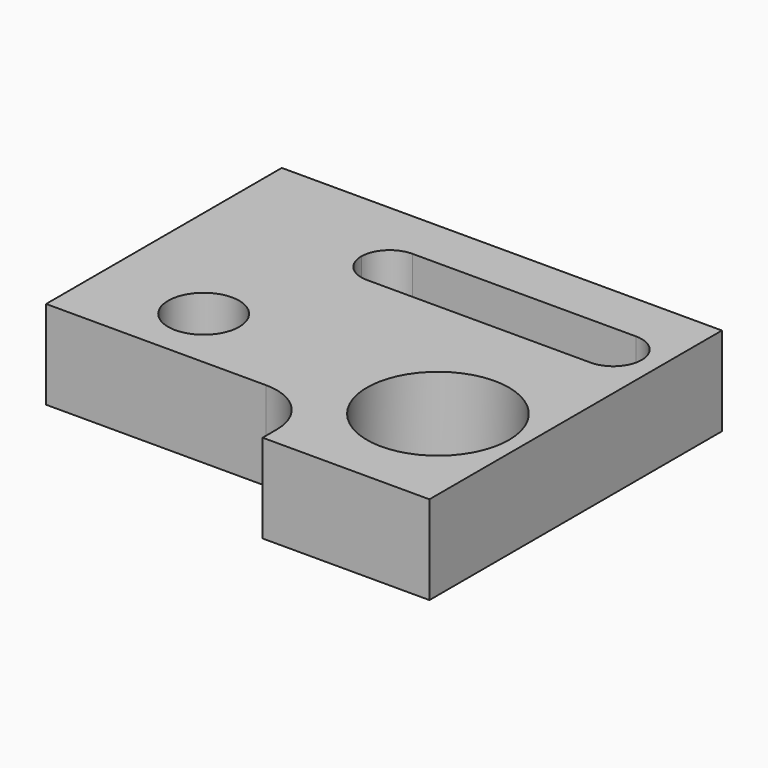
from build123d import *

# Parameters (mm, degrees)
F0_R     = 10
F0_R_2   = 20
F1_DEPTH = 25


with BuildPart() as f1:
    # F0 (on Top) → F1 (new body)
    with BuildSketch(Plane.XY):
        with BuildLine():
            Line((57.575265, 37.266129), (-66.424735, 37.266129))
            Line((-66.424735, 37.266129), (-66.424735, -45.733871))
            Line((-66.424735, -45.733871), (-4.424735, -45.733871))
            ThreePointArc((-4.424735, -45.733871), (6.181867, -50.127269), (10.575265, -60.733871))
            Line((10.575265, -60.733871), (10.575265, -65.733871))
            Line((10.575265, -65.733871), (57.575265, -65.733871))
            Line((57.575265, -65.733871), (57.575265, 37.266129))
        make_face()
        with Locations((-36.424735, -27.733871)):
            Circle(F0_R, mode=Mode.SUBTRACT)
        with Locations((33.575265, -32.733871)):
            Circle(F0_R_2, mode=Mode.SUBTRACT)
        with BuildLine():
            Line((-18.424735, 23.266129), (44.575265, 23.266129))
            ThreePointArc((44.575265, 23.266129), (50.232119, 20.922984), (52.575265, 15.266129))
            ThreePointArc((52.575265, 15.266129), (50.232119, 9.609275), (44.575265, 7.266129))
            Line((44.575265, 7.266129), (-18.424735, 7.266129))
            ThreePointArc((-18.424735, 7.266129), (-24.081589, 9.609275), (-26.424735, 15.266129))
            ThreePointArc((-26.424735, 15.266129), (-24.081589, 20.922984), (-18.424735, 23.266129))
        make_face(mode=Mode.SUBTRACT)
    extrude(amount=F1_DEPTH)


solid = f1.part
